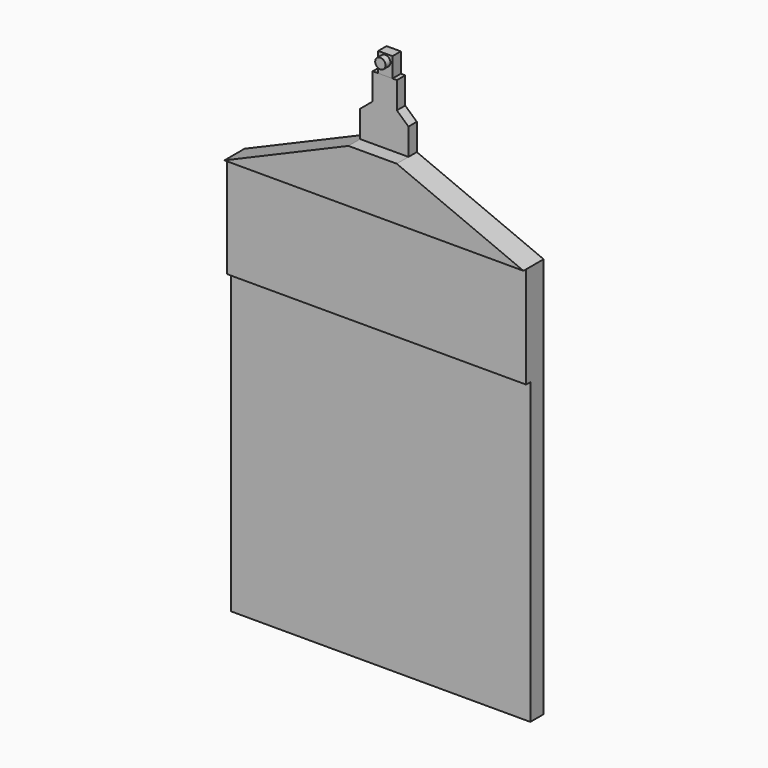
from build123d import *

# Parameters (mm, degrees)
F0_W     = 159.9845605834
F0_H     = 159.9845605834
F1_DEPTH = 8.89
F0_H_2   = 54.3017156402
F2_DEPTH = 11.684
F3_DEPTH = 13.462
F4_DEPTH = 5.588
F5_DEPTH = 5.588
F6_DEPTH = 5.588
F0_W_2   = 7.62
F0_H_3   = 4.110747473
F7_DEPTH = 5.588
F0_R     = 2.7577220522
F8_DEPTH = 8.89
F0_H_4   = 10.5306715801
F9_DEPTH = 5.588


with BuildPart() as f1:
    # F0 (on Front) → F1 (new body)
    with BuildSketch(Plane.XZ):
        with Locations((0.2204851322, 0.061805434)):
            Rectangle(F0_W, F0_H)
    extrude(amount=F1_DEPTH)

    # F0 (on Front) → F2 (join)
    with BuildSketch(Plane.XZ):
        with Locations((0.2204851322, 107.2049435458)):
            Rectangle(F0_W, F0_H_2)
    extrude(amount=F2_DEPTH)

    # F0 (on Front) → F3 (join)
    with BuildSketch(Plane.XZ):
        Polygon((-79.7717951595, 134.3558013658), (80.2127654239, 134.3558013658), (12.4039688199, 162.7520798121), (-13.4423059487, 162.7298990929), align=None)
    extrude(amount=F3_DEPTH)

    # F0 (on Front) → F4 (join)
    with BuildSketch(Plane.XZ):
        Polygon((-13.4423059487, 162.7298990929), (12.4039688199, 162.7520798121), (12.39171856, 177.0268009339), (-13.4545752436, 177.0268009339), align=None)
    extrude(amount=F4_DEPTH)

    # F0 (on Front) → F5 (join)
    with BuildSketch(Plane.XZ):
        Polygon((-13.4545752436, 177.0268009339), (12.39171856, 177.0268009339), (6.19585928, 182.6477961476), (0, 188.2687913613), (-6.7272876218, 182.6477961476), align=None)
    extrude(amount=F5_DEPTH)

    # F0 (on Front) → F6 (join)
    with BuildSketch(Plane.XZ):
        Polygon((0, 188.2687913613), (6.19585928, 182.6477961476), (6.19585928, 196.8717961476), (3.8324496233, 196.8717961476), (3.8324496233, 192.7610486746), (-3.7875503767, 192.7610486746), (-3.7875503767, 196.8717961476), (-6.7272876218, 196.8717961476), (-6.7272876218, 182.6477961476), align=None)
    extrude(amount=F6_DEPTH)

    # F0 (on Front) → F7 (join)
    with BuildSketch(Plane.XZ):
        with Locations((0.0224496233, 194.8164224111)):
            Rectangle(F0_W_2, F0_H_3)
    extrude(amount=F7_DEPTH)


with BuildPart() as f8:
    # F0 (on Front) → F8 (new body)
    with BuildSketch(Plane.XZ):
        with Locations((0, 204.0426135063)):
            Circle(F0_R)
    extrude(amount=F8_DEPTH)


with BuildPart() as f9:
    # F0 (on Front) → F9 (new body)
    with BuildSketch(Plane.XZ):
        with Locations((0.0224496233, 202.1371319376)):
            Rectangle(F0_W_2, F0_H_4)
        with Locations((0, 204.0426135063)):
            Circle(F0_R, mode=Mode.SUBTRACT)
    extrude(amount=F9_DEPTH)


solid = Compound([f1.part, f8.part, f9.part])
